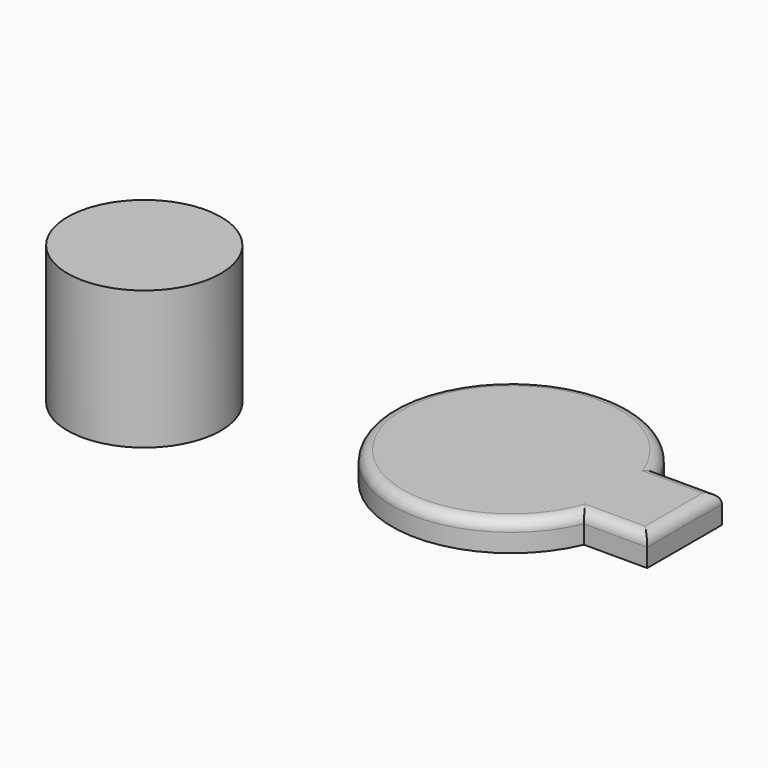
from build123d import *

# Parameters (mm, degrees)
F0_R     = 56.232225
F1_W     = 88.388848
F1_H     = 44.062443
F2_DEPTH = 13.716
F3_R     = 5.08
F4_R     = 36.181427
F5_DEPTH = 65.278


with BuildPart() as f2:
    # F0 (on Top) + F1 (on Top) → F2 (new body)
    with BuildSketch(Plane.XY):
        with Locations((1.769612, 0)):
            Circle(F0_R)
    with BuildSketch(Plane.XY):
        with Locations((39.245977, 0.157928)):
            Rectangle(F1_W, F1_H)
    extrude(amount=F2_DEPTH)

    # F3
    f3_edges = [f2.edges().sort_by_distance(p)[0] for p in [
        (83.440401, 0.157928, 13.716),
        (68.439599, 22.18915, 13.716),
        (-54.462351, -0.171651, 13.716),
        (68.50685, -21.873293, 13.716),
    ]]
    fillet(f3_edges, radius=F3_R)


with BuildPart() as f5:
    # F4 (on Top) → F5 (new body)
    with BuildSketch(Plane.XY):
        with Locations((-143.936649, -34.357991)):
            Circle(F4_R)
    extrude(amount=F5_DEPTH)


solid = Compound([f2.part, f5.part])
